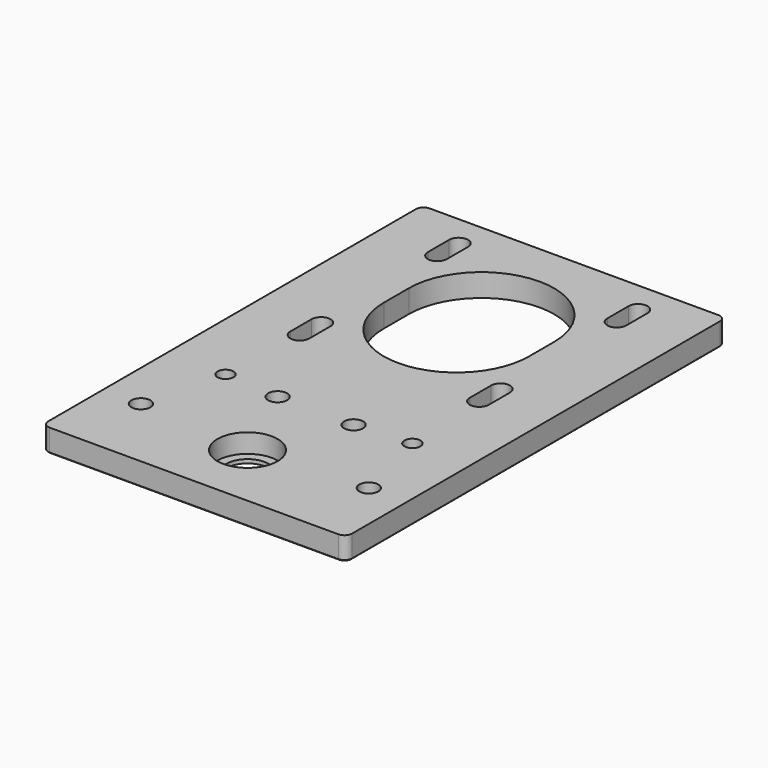
from build123d import *

# Parameters (mm, degrees)
F0_W     = 80
F0_H     = 125
F0_R     = 2.5
F0_R_2   = 2.1
F0_R_3   = 5.59
F1_DEPTH = 6
F3_DEPTH = 6
F4_R     = 2
F5_SIZE  = 0.25
F6_R     = 7.925
F6_R_2   = 5.59
F7_DEPTH = 5


with BuildPart() as f1:
    # F0 (on Top) → F1 (new body)
    with BuildSketch(Plane.XY):
        with Locations((0, 42.5)):
            Rectangle(F0_W, F0_H)
        with Locations((-30, 0)):
            Circle(F0_R, mode=Mode.SUBTRACT)
        with Locations((-24.6, 21.1)):
            Circle(F0_R_2, mode=Mode.SUBTRACT)
        with Locations((-10, 20)):
            Circle(F0_R, mode=Mode.SUBTRACT)
        with Locations((0, -2.4)):
            Circle(F0_R_3, mode=Mode.SUBTRACT)
        with Locations((30, 0)):
            Circle(F0_R, mode=Mode.SUBTRACT)
        with Locations((10, 20)):
            Circle(F0_R, mode=Mode.SUBTRACT)
        with Locations((24.6, 21.1)):
            Circle(F0_R_2, mode=Mode.SUBTRACT)
        with BuildLine():
            ThreePointArc((-19.125, 74.575), (0, 93.7), (19.125, 74.575))
            Line((19.125, 74.575), (19.125, 66.325))
            ThreePointArc((19.125, 66.325), (0, 47.2), (-19.125, 66.325))
            Line((-19.125, 66.325), (-19.125, 74.575))
        make_face(mode=Mode.SUBTRACT)
    extrude(amount=F1_DEPTH)

    # F2 (on Top) → F3 (cut, through all)
    with BuildSketch(Plane.XY):
        with BuildLine():
            Line((-21.125, 89.575), (-21.125, 96.575))
            ThreePointArc((-21.125, 96.575), (-23.625, 99.075), (-26.125, 96.575))
            Line((-26.125, 96.575), (-26.125, 89.575))
            ThreePointArc((-26.125, 89.575), (-23.625, 87.075), (-21.125, 89.575))
        make_face()
        with BuildLine():
            Line((26.125, 89.575), (26.125, 96.575))
            ThreePointArc((26.125, 96.575), (23.625, 99.075), (21.125, 96.575))
            Line((21.125, 96.575), (21.125, 89.575))
            ThreePointArc((21.125, 89.575), (23.625, 87.075), (26.125, 89.575))
        make_face()
        with BuildLine():
            ThreePointArc((21.125, 44.325), (23.625, 41.825), (26.125, 44.325))
            Line((26.125, 44.325), (26.125, 51.325))
            ThreePointArc((26.125, 51.325), (23.625, 53.825), (21.125, 51.325))
            Line((21.125, 51.325), (21.125, 44.325))
        make_face()
        with BuildLine():
            ThreePointArc((-21.125, 51.325), (-23.625, 53.825), (-26.125, 51.325))
            Line((-26.125, 51.325), (-26.125, 44.325))
            ThreePointArc((-26.125, 44.325), (-23.625, 41.825), (-21.125, 44.325))
            Line((-21.125, 44.325), (-21.125, 51.325))
        make_face()
    extrude(amount=F3_DEPTH, mode=Mode.SUBTRACT)

    # F4
    f4_edges = [f1.edges().sort_by_distance(p)[0] for p in [
        (40, -20, 3),
        (-40, -20, 3),
        (40, 105, 3),
        (-40, 105, 3),
    ]]
    fillet(f4_edges, radius=F4_R)

    # F5
    f5_edges = [f1.edges().sort_by_distance(p)[0] for p in [
        (-40, 42.5, 0),
        (-39.414214, 104.414214, 0),
        (0, 105, 0),
        (39.414214, 104.414214, 0),
        (40, 42.5, 0),
        (39.414214, -19.414214, 0),
        (0, -20, 0),
        (-39.414214, -19.414214, 0),
    ]]
    chamfer(f5_edges, length=F5_SIZE)

    # F6 (on face) → F7 (cut)
    with BuildSketch(Plane.XY.offset(6)):
        with Locations((0, -2.4)):
            Circle(F6_R)
        with Locations((0, -2.4)):
            Circle(F6_R_2, mode=Mode.SUBTRACT)
    extrude(amount=-F7_DEPTH, mode=Mode.SUBTRACT)


solid = f1.part
